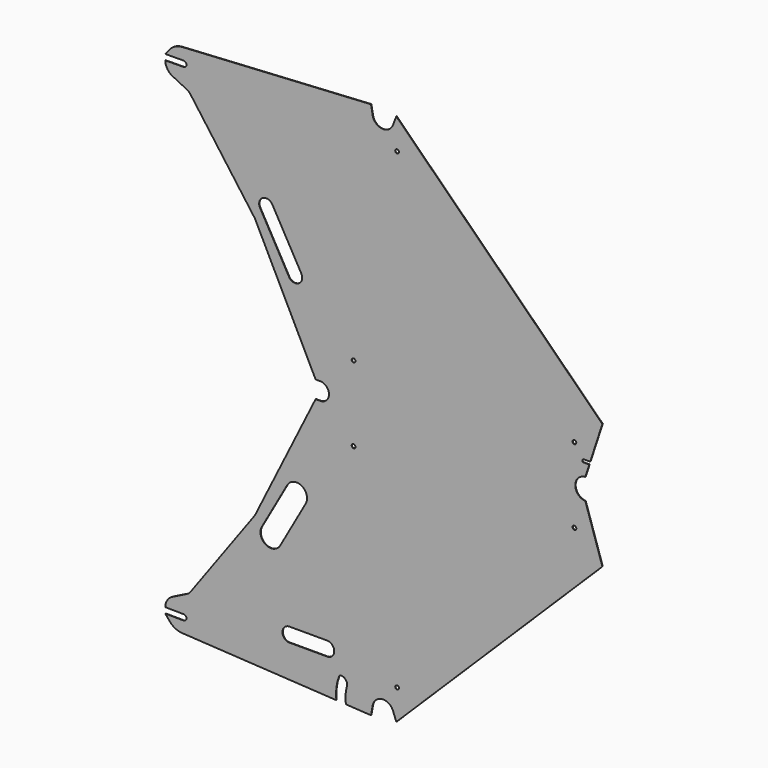
from build123d import *

# Parameters (mm, degrees)
F0_R     = 4
F1_DEPTH = 1


with BuildPart() as f1:
    # F0 (on Front) → F1 (new body)
    with BuildSketch(Plane.XZ):
        with BuildLine():
            ThreePointArc((-42.428788, 22.197763), (-22.393428, 40.636528), (0.736568, 26.269656))
            Line((0.736568, 26.269656), (7.82161, 7.734496))
            Line((7.82161, 7.734496), (445.831745, 440.866256))
            Line((445.831745, 440.866256), (409.571118, 551.809463))
            ThreePointArc((409.571118, 551.809463), (403.393924, 553.012383), (397.791506, 555.879027))
            Line((397.791506, 555.879027), (-153.711431, 555.879027))
            Line((-153.711431, 555.879027), (-163.711431, 555.879027))
            Line((-163.711431, 555.879027), (-176.433934, 530.299822))
            Line((-176.433934, 530.299822), (-292.672837, 296.595913))
            Line((-292.672837, 296.595913), (-429.805557, 108.635613))
            ThreePointArc((-429.805557, 108.635613), (-433.055197, 105.145969), (-437.038546, 102.524765))
            Line((-437.038546, 102.524765), (-467.979575, 87.098137))
            ThreePointArc((-467.979575, 87.098137), (-479.031049, 77.063624), (-483.216559, 62.73505))
            Line((-483.216559, 62.73505), (-444.218322, 62.364245))
            ThreePointArc((-444.218322, 62.364245), (-439.992581, 60.566627), (-438.27564, 56.307469))
            ThreePointArc((-438.27564, 56.307469), (-440.073258, 52.081729), (-444.332415, 50.364787))
            Line((-444.332415, 50.364787), (-483.330653, 50.735592))
            Line((-483.330653, 50.735592), (-473.742625, 39.200006))
            ThreePointArc((-473.742625, 39.200006), (-462.016917, 29.862605), (-447.542263, 25.968544))
            Line((-447.542263, 25.968544), (-119.640526, 6.942116))
            ThreePointArc((-119.640526, 6.942116), (-119.539343, 30.38703), (-113.982147, 53.164032))
            ThreePointArc((-113.982147, 53.164032), (-112.028876, 55.605369), (-109.00742, 56.409233))
            Line((-109.00742, 56.409233), (-91.138541, 55.372396))
            ThreePointArc((-91.138541, 55.372396), (-94.609764, 47.818656), (-97.278364, 39.945477))
            ThreePointArc((-97.278364, 39.945477), (-100.140537, 22.963258), (-99.30184, 5.761968))
            Line((-99.30184, 5.761968), (-45.922757, 2.664658))
            Line((-45.922757, 2.664658), (-42.428788, 22.197763))
        make_face()
        with BuildLine():
            ThreePointArc((-219.185589, 82.205842), (-234.185589, 97.205842), (-219.185589, 112.205842))
            Line((-219.185589, 112.205842), (-139.185589, 112.205842))
            ThreePointArc((-139.185589, 112.205842), (-124.185589, 97.205842), (-139.185589, 82.205842))
            Line((-139.185589, 82.205842), (-219.185589, 82.205842))
        make_face(mode=Mode.SUBTRACT)
        with BuildLine():
            ThreePointArc((-238.884885, 257.620199), (-269.539195, 249.087128), (-278.072266, 279.741438))
            Line((-278.072266, 279.741438), (-223.998126, 375.532812))
            ThreePointArc((-223.998126, 375.532812), (-193.343817, 384.065883), (-184.810746, 353.411573))
            Line((-184.810746, 353.411573), (-238.884885, 257.620199))
        make_face(mode=Mode.SUBTRACT)
        with Locations((-83.001788, 494.079027)):
            Circle(F0_R, mode=Mode.SUBTRACT)
        with Locations((9.507399, 72.687717)):
            Circle(F0_R, mode=Mode.SUBTRACT)
        with Locations((386.357424, 494.079027)):
            Circle(F0_R, mode=Mode.SUBTRACT)
        with BuildLine():
            ThreePointArc((-109.00742, 56.409233), (-99.197738, 50.987949), (-97.278364, 39.945477))
            ThreePointArc((-97.278364, 39.945477), (-94.609764, 47.818656), (-91.138541, 55.372396))
            Line((-91.138541, 55.372396), (-109.00742, 56.409233))
        make_face()
        with BuildLine():
            Line((-153.711431, 555.879027), (397.791506, 555.879027))
            ThreePointArc((397.791506, 555.879027), (388.241023, 574.279027), (397.791506, 592.679027))
            Line((397.791506, 592.679027), (-153.711431, 592.679027))
            ThreePointArc((-153.711431, 592.679027), (-135.311431, 574.279027), (-153.711431, 555.879027))
        make_face()
        with BuildLine():
            Line((-153.711431, 592.679027), (397.791506, 592.679027))
            ThreePointArc((397.791506, 592.679027), (403.393924, 595.545671), (409.571118, 596.748591))
            Line((409.571118, 596.748591), (418.046209, 622.679027))
            Line((418.046209, 622.679027), (406.046209, 622.679027))
            ThreePointArc((406.046209, 622.679027), (403.924889, 623.557707), (403.046209, 625.679027))
            ThreePointArc((403.046209, 625.679027), (403.924889, 627.800347), (406.046209, 628.679027))
            Line((406.046209, 628.679027), (420.007247, 628.679027))
            Line((420.007247, 628.679027), (445.831745, 707.691799))
            Line((445.831745, 707.691799), (7.82161, 1140.823559))
            Line((7.82161, 1140.823559), (0.736568, 1122.288398))
            ThreePointArc((0.736568, 1122.288398), (-22.393428, 1107.921526), (-42.428788, 1126.360291))
            Line((-42.428788, 1126.360291), (-45.922757, 1145.893396))
            Line((-45.922757, 1145.893396), (-447.542263, 1122.58951))
            ThreePointArc((-447.542263, 1122.58951), (-462.016917, 1118.695449), (-473.742625, 1109.358048))
            Line((-473.742625, 1109.358048), (-483.330653, 1097.822462))
            Line((-483.330653, 1097.822462), (-444.332415, 1098.193267))
            ThreePointArc((-444.332415, 1098.193267), (-440.073258, 1096.476326), (-438.27564, 1092.250585))
            ThreePointArc((-438.27564, 1092.250585), (-439.992581, 1087.991428), (-444.218322, 1086.19381))
            Line((-444.218322, 1086.19381), (-483.216559, 1085.823005))
            ThreePointArc((-483.216559, 1085.823005), (-479.031049, 1071.494431), (-467.979575, 1061.459917))
            Line((-467.979575, 1061.459917), (-437.038546, 1046.033289))
            ThreePointArc((-437.038546, 1046.033289), (-433.055197, 1043.412085), (-429.805557, 1039.922441))
            Line((-429.805557, 1039.922441), (-292.672837, 851.962142))
            Line((-292.672837, 851.962142), (-178.632735, 622.679027))
            Line((-178.632735, 622.679027), (-176.433934, 618.258232))
            Line((-176.433934, 618.258232), (-163.711431, 592.679027))
            Line((-163.711431, 592.679027), (-153.711431, 592.679027))
        make_face()
        with Locations((-83.001788, 654.479027)):
            Circle(F0_R, mode=Mode.SUBTRACT)
        with BuildLine():
            ThreePointArc((-281.759139, 875.347847), (-276.070425, 895.784053), (-255.634219, 890.095339))
            Line((-255.634219, 890.095339), (-194.186333, 781.241505))
            ThreePointArc((-194.186333, 781.241505), (-199.875047, 760.805298), (-220.311253, 766.494012))
            Line((-220.311253, 766.494012), (-281.759139, 875.347847))
        make_face(mode=Mode.SUBTRACT)
        with Locations((386.357424, 654.479027)):
            Circle(F0_R, mode=Mode.SUBTRACT)
        with Locations((9.507399, 1075.870338)):
            Circle(F0_R, mode=Mode.SUBTRACT)
    extrude(amount=F1_DEPTH)


solid = f1.part
